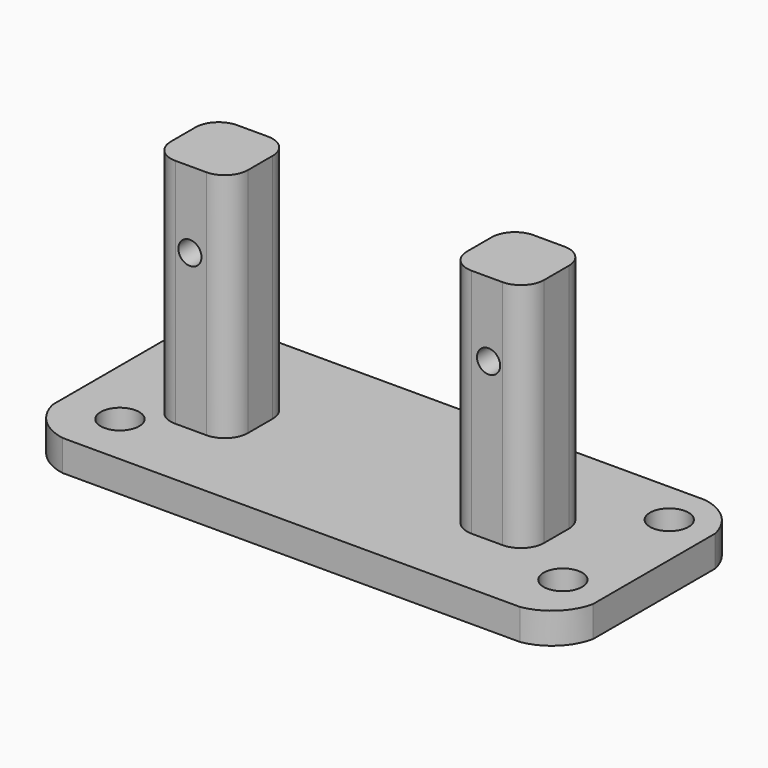
from build123d import *

# Parameters (mm, degrees)
SKETCH_W        = 70
SKETCH_H        = 30
PAD_DEPTH       = 4
PAD001_DEPTH    = 30
SKETCH003_R     = 1.5
POCKET_DEPTH    = 10
SKETCH004_R     = 2.5
HOLE_DEPTH      = 25
POCKET001_DEPTH = 5


with BuildPart() as part:
    # Sketch → Pad (new body)
    with BuildSketch(Plane.XY):
        Rectangle(SKETCH_W, SKETCH_H)
    extrude(amount=PAD_DEPTH)

    # Sketch001 → Pad001 (join)
    with BuildSketch(Plane.XY.offset(4)):
        with BuildLine():
            Line((-25.674894, 1.559909), (-25.674894, -2.440091))
            ThreePointArc((-25.674894, -2.440091), (-24.796214, -4.561411), (-22.674894, -5.440091))
            Line((-22.674894, -5.440091), (-18.674894, -5.440091))
            ThreePointArc((-18.674894, -5.440091), (-16.553574, -4.561411), (-15.674894, -2.440091))
            Line((-15.674894, -2.440091), (-15.674894, 1.559909))
            ThreePointArc((-15.674894, 1.559909), (-16.553574, 3.681229), (-18.674894, 4.559909))
            Line((-18.674894, 4.559909), (-22.674894, 4.559909))
            ThreePointArc((-22.674894, 4.559909), (-24.796214, 3.681229), (-25.674894, 1.559909))
        make_face()
        with BuildLine():
            Line((12.775577, 1.472262), (12.775577, -2.527736))
            ThreePointArc((12.775577, -2.527736), (13.654257, -4.649056), (15.775577, -5.527736))
            Line((15.775577, -5.527736), (19.775106, -5.527736))
            ThreePointArc((19.775106, -5.527736), (21.896426, -4.649056), (22.775106, -2.527736))
            Line((22.775106, -2.527736), (22.775106, 1.472262))
            ThreePointArc((22.775106, 1.472262), (21.896426, 3.593582), (19.775106, 4.472262))
            Line((19.775106, 4.472262), (15.775577, 4.472262))
            ThreePointArc((15.775577, 4.472262), (13.654257, 3.593582), (12.775577, 1.472262))
        make_face()
    extrude(amount=PAD001_DEPTH)

    # Sketch003 → Pocket (cut, symmetric)
    with BuildSketch(Plane.XZ.offset(3.853326)):
        with Locations((-20.799536, 24.110664)):
            Circle(SKETCH003_R)
        with Locations((17.973553, 24.375628)):
            Circle(SKETCH003_R)
    extrude(amount=POCKET_DEPTH, both=True, mode=Mode.SUBTRACT)

    # Sketch004 (on Face5 of Pocket) → Hole (cut)
    with BuildSketch(Plane.XY.offset(4)):
        with Locations((29.484156, 9.351145)):
            Circle(SKETCH004_R)
        with Locations((29.302721, -7.648855)):
            Circle(SKETCH004_R)
        with Locations((-27.515844, 8.851251)):
            Circle(SKETCH004_R)
        with Locations((-27.697279, -8.148749)):
            Circle(SKETCH004_R)
    extrude(amount=-HOLE_DEPTH, mode=Mode.SUBTRACT)

    # Sketch005 (on Face5 of Hole) → Pocket001 (cut)
    with BuildSketch(Plane.XY.offset(4)):
        with BuildLine():
            ThreePointArc((-29.5254, 15.019082), (-33.217927, 13.152465), (-35.081265, 9.458282))
            Line((-35.081265, 9.458282), (-35.081265, 15.019082))
            Line((-35.081265, 15.019082), (-29.5254, 15.019082))
        make_face()
        with BuildLine():
            ThreePointArc((35.081265, 9.458282), (33.217927, 13.152465), (29.5254, 15.019082))
            Line((35.081265, 15.019082), (29.5254, 15.019082))
            Line((35.081265, 9.458282), (35.081265, 15.019082))
        make_face()
        with BuildLine():
            ThreePointArc((-35.081265, -9.458282), (-33.217927, -13.152465), (-29.5254, -15.019082))
            Line((-35.081265, -15.019082), (-29.5254, -15.019082))
            Line((-35.081265, -9.458282), (-35.081265, -15.019082))
        make_face()
        with BuildLine():
            ThreePointArc((29.5254, -15.019082), (33.217927, -13.152465), (35.081265, -9.458282))
            Line((35.081265, -9.458282), (35.081265, -15.019082))
            Line((35.081265, -15.019082), (29.5254, -15.019082))
        make_face()
    extrude(amount=-POCKET001_DEPTH, mode=Mode.SUBTRACT)


solid = part.part
